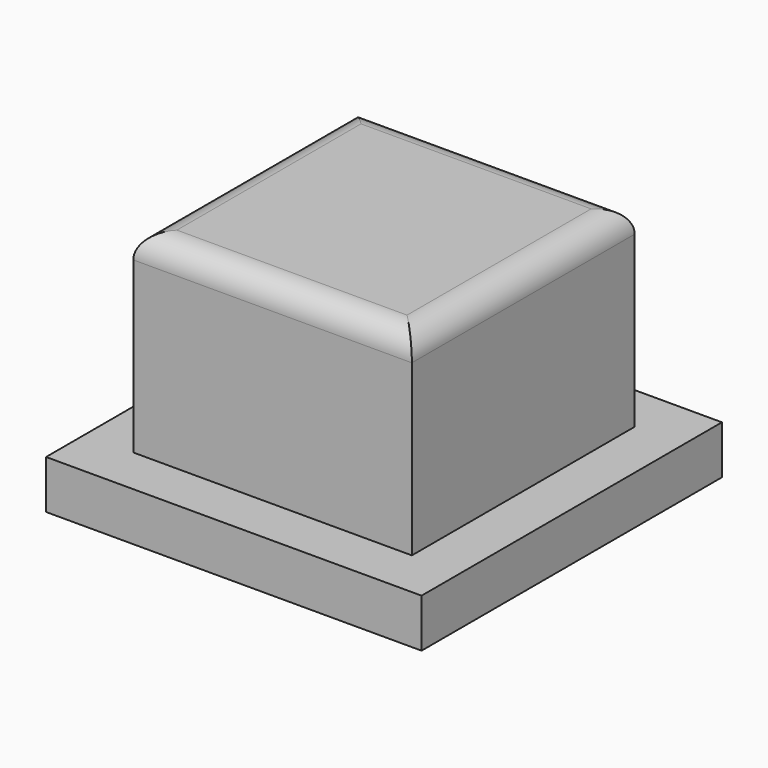
from build123d import *

# Parameters (mm, degrees)
SKETCH_W     = 7.75
SKETCH_H     = 7.75
PAD_DEPTH    = 1
SKETCH001_W  = 5.75
SKETCH001_H  = 5.75
PAD001_DEPTH = 4
FILLET_R     = 0.5


with BuildPart() as part:
    # Sketch → Pad (new body)
    with BuildSketch(Plane.XY):
        with Locations((3.875, 3.875)):
            Rectangle(SKETCH_W, SKETCH_H)
    extrude(amount=PAD_DEPTH)

    # Sketch001 (on Face6 of Pad) → Pad001 (join)
    with BuildSketch(Plane.XY.offset(1)):
        with Locations((3.875, 3.875)):
            Rectangle(SKETCH001_W, SKETCH001_H)
    extrude(amount=PAD001_DEPTH)

    # Fillet
    fillet_edges = [part.edges().sort_by_distance(p)[0] for p in [
        (3.875, 6.75, 5),
        (6.75, 3.875, 5),
        (1, 3.875, 5),
        (3.875, 1, 5),
    ]]
    fillet(fillet_edges, radius=FILLET_R)


solid = part.part
